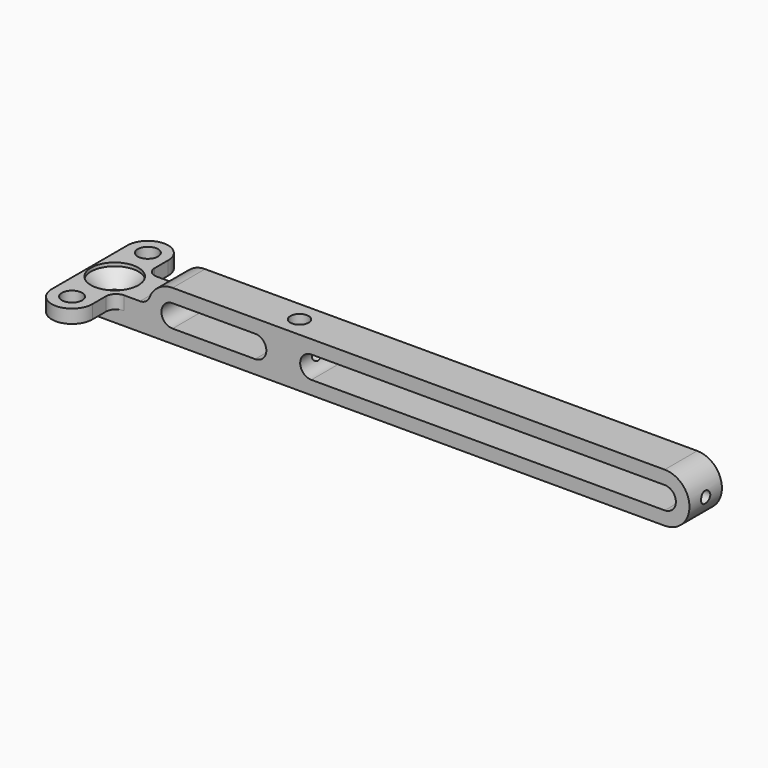
from build123d import *

# Parameters (mm, degrees)
F1_DEPTH       = 3
F3_DEPTH       = 6
F5_DEPTH       = 2
F6_R           = 3.5
F7_DEPTH       = 0.5
F9_D           = 3
F9_CSINK_D     = 7
F9_CSINK_ANGLE = 90
F10_D          = 3
F11_R          = 1.5
F14_R          = 0.85
F15_DEPTH      = 63.7357865376
F17_D          = 2.7
F18_SCALE      = 1.02


with BuildPart() as f1:
    # F0 (on Front) → F1 (new body, symmetric)
    with BuildSketch(Plane.XZ):
        with BuildLine():
            ThreePointArc((0, 3.65), (-3.65, 0), (0, -3.65))
            Line((0, -3.65), (72.7, -3.65))
            ThreePointArc((72.7, -3.65), (76.35, 0), (72.7, 3.65))
            Line((72.7, 3.65), (0, 3.65))
        make_face()
        with BuildLine():
            Line((12.2, -1.65), (0, -1.65))
            ThreePointArc((0, -1.65), (-1.65, 0), (0, 1.65))
            Line((0, 1.65), (12.2, 1.65))
            ThreePointArc((12.2, 1.65), (13.85, 0), (12.2, -1.65))
        make_face(mode=Mode.SUBTRACT)
        with BuildLine():
            Line((20.5, 1.65), (72.7, 1.65))
            ThreePointArc((72.7, 1.65), (74.35, 0), (72.7, -1.65))
            Line((72.7, -1.65), (20.5, -1.65))
            ThreePointArc((20.5, -1.65), (18.85, 0), (20.5, 1.65))
        make_face(mode=Mode.SUBTRACT)
    extrude(amount=F1_DEPTH, both=True)

    # F2 (on face) → F3 (join, through all)
    with BuildSketch(Plane.XZ.offset(3)):
        with BuildLine():
            Line((-13.65, -3.65), (0, -3.65))
            ThreePointArc((0, -3.65), (-2.7018512172, -2.4540782384), (-3.6331804249, 0.35))
            Line((-3.6331804249, 0.35), (-13.65, 0.35))
            Line((-13.65, 0.35), (-13.65, -3.65))
        make_face()
    extrude(amount=-F3_DEPTH)

    # F4 (on face) → F5 (join)
    with BuildSketch(Plane.XY.offset(0.35)):
        with BuildLine():
            ThreePointArc((-14.65, -7), (-11.65, -10), (-8.65, -7))
            Line((-8.65, -7), (-8.65, 7))
            ThreePointArc((-8.65, 7), (-11.65, 10), (-14.65, 7))
            Line((-14.65, 7), (-14.65, -7))
        make_face()
    extrude(amount=-F5_DEPTH)

    # F6 (on face) → F7 (cut)
    with BuildSketch(Plane.XY.offset(0.35)):
        with Locations((-10.95, 0)):
            Circle(F6_R)
    extrude(amount=-F7_DEPTH, mode=Mode.SUBTRACT)

    # F9 (through all)
    with Locations(Plane.XY.offset(-0.15)):
        with Locations((-10.95, 0)):
            CounterSinkHole(F9_D / 2, F9_CSINK_D / 2, counter_sink_angle=F9_CSINK_ANGLE)

    # F10 (through all)
    with Locations(Plane.XY.offset(0.35)):
        with Locations((-11.65, 7), (-11.65, -7)):
            Hole(F10_D / 2)

    # F11
    f11_edges = [f1.edges().sort_by_distance(p)[0] for p in [
        (-8.65, -3, -0.65),
        (-8.65, 3, -0.65),
        (-3.63318, 0, 0.35),
    ]]
    fillet(f11_edges, radius=F11_R)

    # F14 (on plane+point) → F15 (cut, up to face)
    with BuildSketch(Plane.YZ.offset(76.35)):
        Circle(F14_R)
    extrude(amount=-F15_DEPTH, mode=Mode.SUBTRACT)

    # F17 (through all)
    with Locations(Plane.XY.offset(3.65)):
        with Locations((16.35, 0)):
            Hole(F17_D / 2)


with BuildPart() as f1_1:
    # F18: moved
    add(f1.part.scale(F18_SCALE))


solid = f1_1.part
